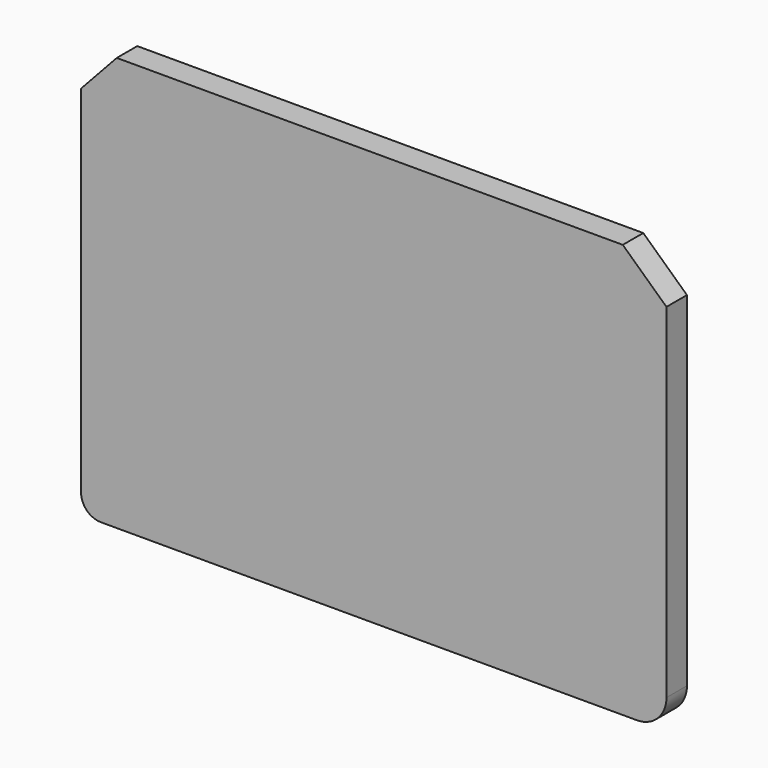
from build123d import *

# Parameters (mm, degrees)
F0_W     = 120
F0_H     = 10
F0_H_2   = 43
F0_H_3   = 15
F1_DEPTH = 13


with BuildPart() as f1:
    # F0 (on Front) → F1 (new body)
    with BuildSketch(Plane.XZ):
        with BuildLine():
            Line((79.65406, 62.704971), (-177.068964, 62.704971))
            Line((-177.068964, 62.704971), (-195.192658, 43.124754))
            Line((-195.192658, 43.124754), (-195.192658, -82.32457))
            Line((-195.192658, -82.32457), (-75.192658, -82.32457))
            Line((-75.192658, -82.32457), (-75.192658, -92.32457))
            Line((-75.192658, -92.32457), (-195.192658, -92.32457))
            Line((-195.192658, -92.32457), (-195.192658, -109.70904))
            Line((-195.192658, -109.70904), (-75.192658, -109.70904))
            Line((-75.192658, -109.70904), (-75.192658, -124.70904))
            Line((-75.192658, -124.70904), (-195.192658, -124.70904))
            Line((-195.192658, -124.70904), (-195.192658, -137.295029))
            ThreePointArc((-195.192658, -137.295029), (-192.263725, -144.366097), (-185.192658, -147.295029))
            Line((-185.192658, -147.295029), (86.807342, -147.295029))
            ThreePointArc((86.807342, -147.295029), (97.413944, -142.90163), (101.807342, -132.295029))
            Line((101.807342, -132.295029), (101.807342, -125.32457))
            Line((101.807342, -125.32457), (-18.192658, -125.32457))
            Line((-18.192658, -125.32457), (-18.192658, -82.32457))
            Line((-18.192658, -82.32457), (101.807342, -82.32457))
            Line((101.807342, -82.32457), (101.807342, 42.199616))
            Line((101.807342, 42.199616), (79.65406, 62.704971))
        make_face()
        with Locations((-135.192658, -87.32457)):
            Rectangle(F0_W, F0_H)
        with Locations((41.807342, -103.82457)):
            Rectangle(F0_W, F0_H_2)
        with Locations((-135.192658, -117.20904)):
            Rectangle(F0_W, F0_H_3)
    extrude(amount=F1_DEPTH)


solid = f1.part
